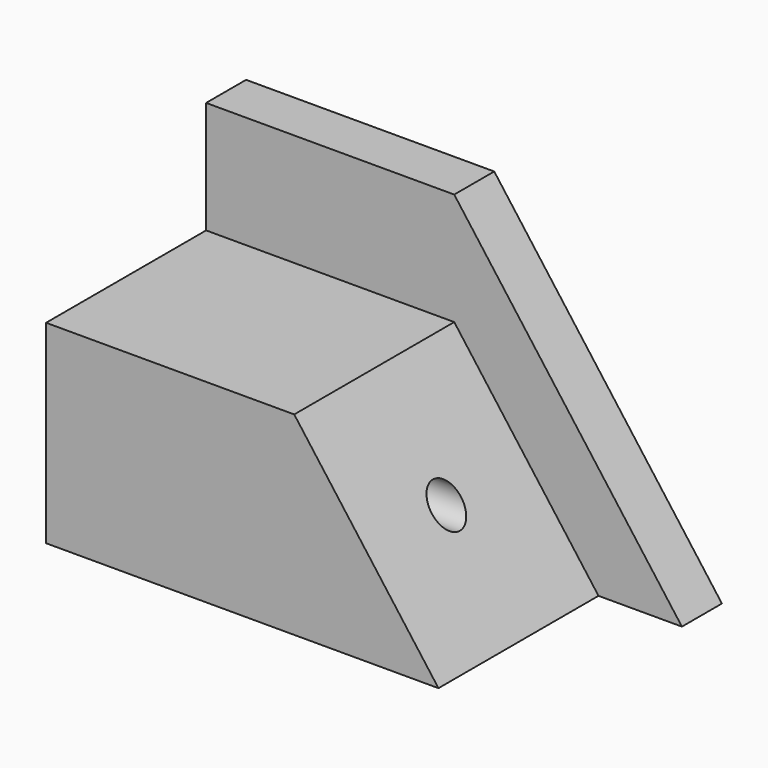
from build123d import *

# Parameters (mm, degrees)
F1_DEPTH = 12.7
F3_DEPTH = 50.8
F4_R     = 4.623587
F5_DEPTH = 120.853254


with BuildPart() as f1:
    # F0 (on Front) → F1 (new body)
    with BuildSketch(Plane.XZ):
        Polygon((-120.852254, 0), (0, 0), (-57.827156, 77.806771), (-120.852254, 77.806771), align=None)
    extrude(amount=F1_DEPTH)

    # F2 (on face) → F3 (join)
    with BuildSketch(Plane.XZ.offset(12.7)):
        Polygon((-57.827156, 49.29851), (-120.852254, 49.29851), (-120.852254, 0), (-21.187766, 0), align=None)
    extrude(amount=F3_DEPTH)

    # F4 (on face) → F5 (cut, through all)
    with BuildSketch(Plane(origin=(-120.852254, 0, 0), x_dir=(0, -1, 0), z_dir=(-1, 0, 0))):
        with Locations((38.1, 24.649255)):
            Circle(F4_R)
    extrude(amount=-F5_DEPTH, mode=Mode.SUBTRACT)


solid = f1.part
